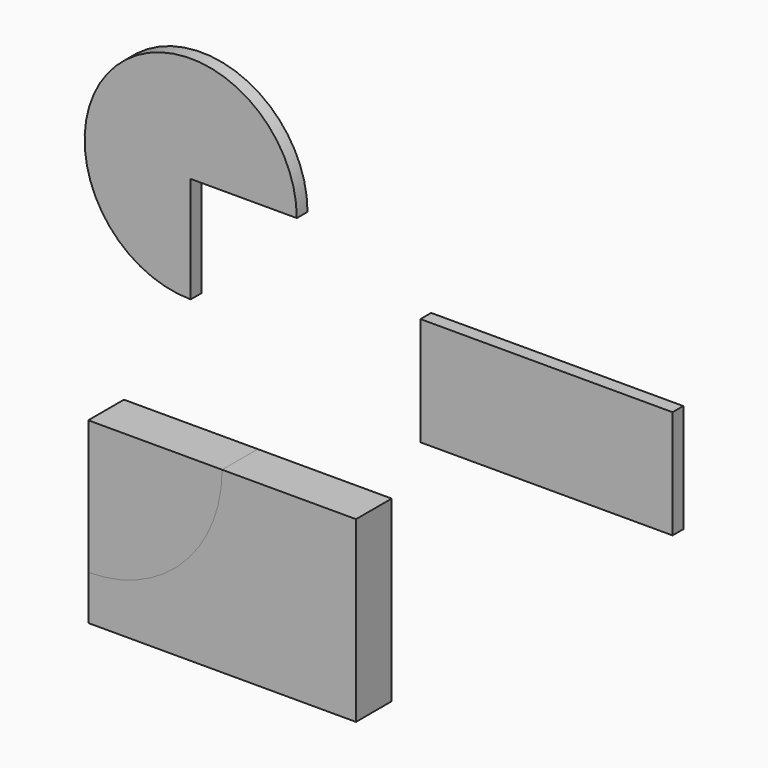
from build123d import *

# Parameters (mm, degrees)
F1_DEPTH = 3
F2_W     = 56.4926248044
F2_H     = 24.3132794276
F3_DEPTH = 3
F5_DEPTH = 10
F6_DEPTH = 10


with BuildPart() as f1:
    # F0 (on Front) → F1 (new body)
    with BuildSketch(Plane.XZ):
        with BuildLine():
            Line((-42.6376275718, 50.414301455), (-18.8660464076, 50.414301455))
            ThreePointArc((-18.8660464076, 50.414301455), (-59.4466738126, 67.2233476958), (-42.6376275718, 26.6427202908))
            Line((-42.6376275718, 26.6427202908), (-42.6376275718, 50.414301455))
        make_face()
    extrude(amount=F1_DEPTH)


with BuildPart() as f3:
    # F2 (on Front) → F3 (new body)
    with BuildSketch(Plane.XZ):
        with Locations((37.0956296101, 27.3524406366)):
            Rectangle(F2_W, F2_H)
    extrude(amount=F3_DEPTH)


with BuildPart() as f5:
    # F4 (on Front) → F5 (new body)
    with BuildSketch(Plane.XZ):
        with BuildLine():
            Line((-30, 0), (-60, 0))
            Line((-60, 0), (-60, -30))
            ThreePointArc((-60, -30), (-38.7867965644, -21.2132034356), (-30, 0))
        make_face()
    extrude(amount=F5_DEPTH)


with BuildPart() as f6:
    # F4 (on Front) → F6 (new body)
    with BuildSketch(Plane.XZ):
        with BuildLine():
            Line((0, 0), (-30, 0))
            ThreePointArc((-30, 0), (-38.7867965644, -21.2132034356), (-60, -30))
            Line((-60, -30), (-60, -40))
            Line((-60, -40), (0, -40))
            Line((0, -40), (0, 0))
        make_face()
    extrude(amount=F6_DEPTH)


solid = Compound([f1.part, f3.part, f5.part, f6.part])
